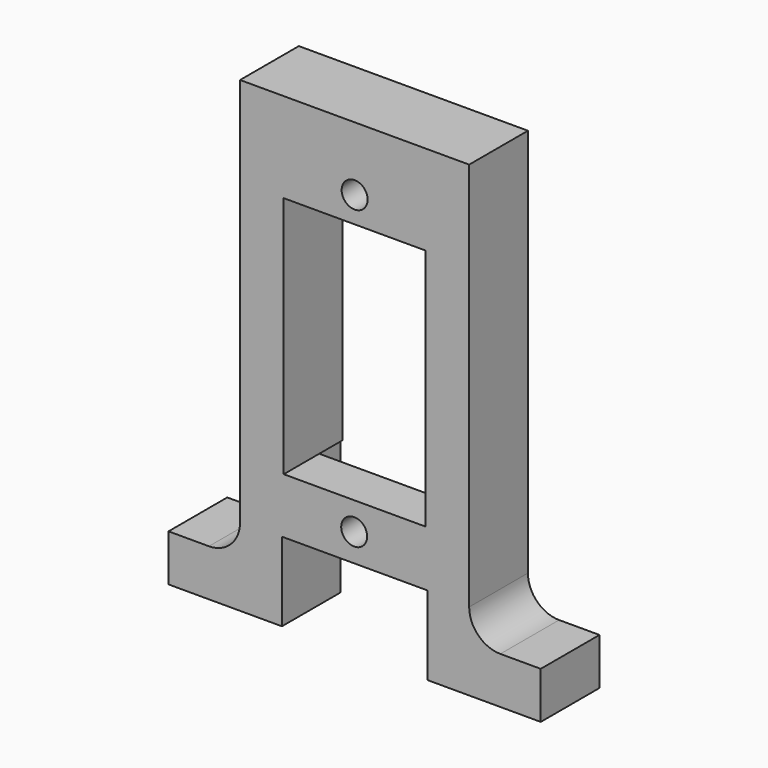
from build123d import *

# Parameters (mm, degrees)
F0_W      = 35.84
F0_H      = 7.07
F1_DEPTH  = 45
F4_W      = 6.89
F4_H      = 40.5
F5_DEPTH  = 7.07
F6_W      = 6.89
F6_H      = 40.5
F7_DEPTH  = 7.07
F2_W      = 14
F2_H      = 7.07
F9_DEPTH  = 7.6
F10_W     = 13.65
F10_H     = 23.4
F11_DEPTH = 7.07
F12_W     = 13.65
F12_H     = 5
F13_DEPTH = 2.6
F14_W     = 13.825
F14_H     = 5.35
F15_DEPTH = 2.8
F16_R     = 3
F17_R     = 1.25
F18_DEPTH = 4.27
F19_R     = 1.25
F20_DEPTH = 4.47


with BuildPart() as f1:
    # F0 (on Top) → F1 (new body)
    with BuildSketch(Plane.XY):
        Rectangle(F0_W, F0_H)
    extrude(amount=F1_DEPTH)

    # F4 (on face) → F5 (cut, through all)
    with BuildSketch(Plane.XZ.offset(3.535)):
        with Locations((14.475, 24.75)):
            Rectangle(F4_W, F4_H)
    extrude(amount=-F5_DEPTH, mode=Mode.SUBTRACT)

    # F6 (on face) → F7 (cut, through all)
    with BuildSketch(Plane.XZ.offset(3.535)):
        with Locations((-14.475, 24.75)):
            Rectangle(F6_W, F6_H)
    extrude(amount=-F7_DEPTH, mode=Mode.SUBTRACT)

    # F2 (on face) → F9 (cut)
    with BuildSketch(Plane(origin=(0, 0, 0), x_dir=(1, 0, 0), z_dir=(0, 0, -1))):
        Rectangle(F2_W, F2_H)
    extrude(amount=-F9_DEPTH, mode=Mode.SUBTRACT)

    # F10 (on face) → F11 (cut, through all)
    with BuildSketch(Plane(origin=(0, 3.535, 0), x_dir=(-1, 0, 0), z_dir=(0, 1, 0))):
        with Locations((0, 24.65)):
            Rectangle(F10_W, F10_H)
    extrude(amount=-F11_DEPTH, mode=Mode.SUBTRACT)

    # F12 (on face) → F13 (cut)
    with BuildSketch(Plane(origin=(0, 3.535, 0), x_dir=(-1, 0, 0), z_dir=(0, 1, 0))):
        with Locations((0, 38.85)):
            Rectangle(F12_W, F12_H)
    extrude(amount=-F13_DEPTH, mode=Mode.SUBTRACT)

    # F14 (on face) → F15 (cut)
    with BuildSketch(Plane(origin=(0, 3.535, 0), x_dir=(-1, 0, 0), z_dir=(0, 1, 0))):
        with Locations((0.0875, 10.275)):
            Rectangle(F14_W, F14_H)
    extrude(amount=-F15_DEPTH, mode=Mode.SUBTRACT)

    # F16
    f16_edges = [f1.edges().sort_by_distance(p)[0] for p in [
        (-11.03, 0, 4.5),
        (11.03, 0, 4.5),
    ]]
    fillet(f16_edges, radius=F16_R)

    # F17 (on face) → F18 (cut, through all)
    with BuildSketch(Plane(origin=(0, 0.735, 0), x_dir=(-1, 0, 0), z_dir=(0, 1, 0))):
        with Locations((0.04375, 10.275)):
            Circle(F17_R)
    extrude(amount=-F18_DEPTH, mode=Mode.SUBTRACT)

    # F19 (on face) → F20 (cut, through all)
    with BuildSketch(Plane(origin=(0, 0.935, 0), x_dir=(-1, 0, 0), z_dir=(0, 1, 0))):
        with Locations((0, 38.85)):
            Circle(F19_R)
    extrude(amount=-F20_DEPTH, mode=Mode.SUBTRACT)


solid = f1.part
